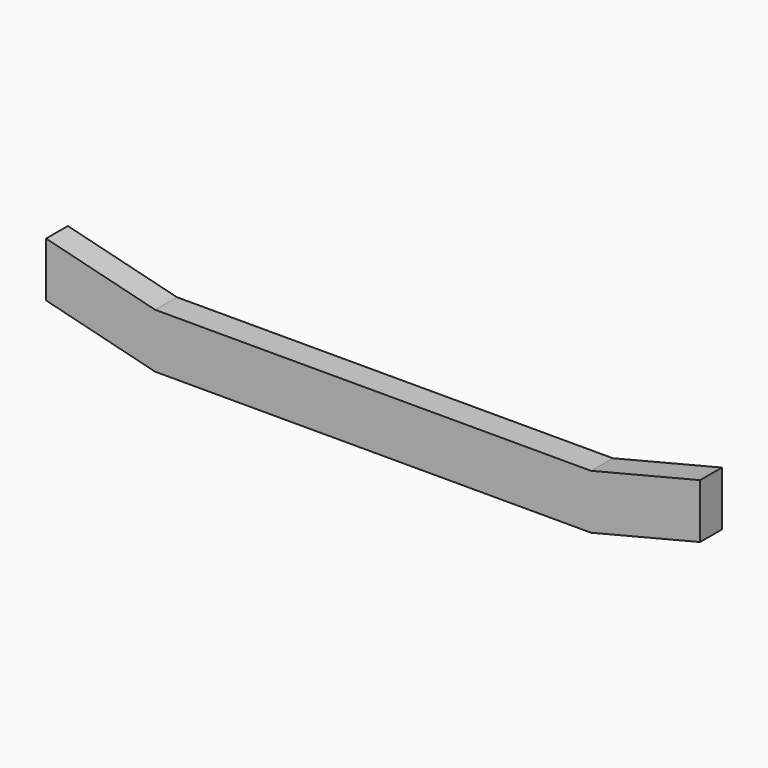
from build123d import *

# Parameters (mm, degrees)
F1_DEPTH = 25.4
F2_DEPTH = 8.382


with BuildPart() as f1:
    # F0 (on Front) → F1 (new body)
    with BuildSketch(Plane.XZ):
        Polygon((304.8, 0), (304.8, 50.8), (203.2, 25.4), (-203.2, 25.4), (-304.8, 50.8), (-304.8, 0), (-203.2, -25.4), (203.2, -25.4), align=None)
        with BuildLine():
            Line((280.170051, 28.278937), (205.533492, 9.619798))
            ThreePointArc((205.533492, 9.619798), (205.151373, 9.548789), (204.763441, 9.525))
            Line((204.763441, 9.525), (-204.763441, 9.525))
            ThreePointArc((-204.763441, 9.525), (-205.151373, 9.548789), (-205.533492, 9.619798))
            Line((-205.533492, 9.619798), (-280.170051, 28.278937))
            ThreePointArc((-280.170051, 28.278937), (-282.480202, 32.12919), (-278.629949, 34.439342))
            Line((-278.629949, 34.439342), (-204.372581, 15.875))
            Line((-204.372581, 15.875), (204.372581, 15.875))
            Line((204.372581, 15.875), (278.629949, 34.439342))
            ThreePointArc((278.629949, 34.439342), (282.480202, 32.12919), (280.170051, 28.278937))
        make_face(mode=Mode.SUBTRACT)
        with BuildLine():
            Line((-280.170051, 28.278937), (-205.533492, 9.619798))
            ThreePointArc((-205.533492, 9.619798), (-207.914653, 13.087932), (-204.763441, 15.875))
            Line((-204.763441, 15.875), (-204.372581, 15.875))
            Line((-204.372581, 15.875), (-278.629949, 34.439342))
            ThreePointArc((-278.629949, 34.439342), (-282.480202, 32.12919), (-280.170051, 28.278937))
        make_face()
        with BuildLine():
            Line((-204.763441, 9.525), (204.763441, 9.525))
            ThreePointArc((204.763441, 9.525), (201.61223, 12.312068), (203.993391, 15.780202))
            Line((203.993391, 15.780202), (204.372581, 15.875))
            Line((204.372581, 15.875), (-204.372581, 15.875))
            Line((-204.372581, 15.875), (-203.993391, 15.780202))
            ThreePointArc((-203.993391, 15.780202), (-201.61223, 12.312068), (-204.763441, 9.525))
        make_face()
        with BuildLine():
            ThreePointArc((204.763441, 15.875), (207.914653, 13.087932), (205.533492, 9.619798))
            Line((205.533492, 9.619798), (280.170051, 28.278937))
            ThreePointArc((280.170051, 28.278937), (282.480202, 32.12919), (278.629949, 34.439342))
            Line((278.629949, 34.439342), (204.372581, 15.875))
            Line((204.372581, 15.875), (204.763441, 15.875))
        make_face()
        with BuildLine():
            ThreePointArc((204.763441, 9.525), (205.151373, 9.548789), (205.533492, 9.619798))
            ThreePointArc((205.533492, 9.619798), (207.914653, 13.087932), (204.763441, 15.875))
            Line((204.763441, 15.875), (204.372581, 15.875))
            Line((204.372581, 15.875), (203.993391, 15.780202))
            ThreePointArc((203.993391, 15.780202), (201.61223, 12.312068), (204.763441, 9.525))
        make_face()
        with BuildLine():
            ThreePointArc((-205.533492, 9.619798), (-205.151373, 9.548789), (-204.763441, 9.525))
            ThreePointArc((-204.763441, 9.525), (-201.61223, 12.312068), (-203.993391, 15.780202))
            Line((-203.993391, 15.780202), (-204.372581, 15.875))
            Line((-204.372581, 15.875), (-204.763441, 15.875))
            ThreePointArc((-204.763441, 15.875), (-207.914653, 13.087932), (-205.533492, 9.619798))
        make_face()
    extrude(amount=F1_DEPTH)

    # F0 (on Front) → F2 (cut)
    with BuildSketch(Plane.XZ):
        with BuildLine():
            Line((-280.170051, 28.278937), (-205.533492, 9.619798))
            ThreePointArc((-205.533492, 9.619798), (-207.914653, 13.087932), (-204.763441, 15.875))
            Line((-204.763441, 15.875), (-204.372581, 15.875))
            Line((-204.372581, 15.875), (-278.629949, 34.439342))
            ThreePointArc((-278.629949, 34.439342), (-282.480202, 32.12919), (-280.170051, 28.278937))
        make_face()
        with BuildLine():
            Line((-204.763441, 9.525), (204.763441, 9.525))
            ThreePointArc((204.763441, 9.525), (201.61223, 12.312068), (203.993391, 15.780202))
            Line((203.993391, 15.780202), (204.372581, 15.875))
            Line((204.372581, 15.875), (-204.372581, 15.875))
            Line((-204.372581, 15.875), (-203.993391, 15.780202))
            ThreePointArc((-203.993391, 15.780202), (-201.61223, 12.312068), (-204.763441, 9.525))
        make_face()
        with BuildLine():
            ThreePointArc((204.763441, 15.875), (207.914653, 13.087932), (205.533492, 9.619798))
            Line((205.533492, 9.619798), (280.170051, 28.278937))
            ThreePointArc((280.170051, 28.278937), (282.480202, 32.12919), (278.629949, 34.439342))
            Line((278.629949, 34.439342), (204.372581, 15.875))
            Line((204.372581, 15.875), (204.763441, 15.875))
        make_face()
        with BuildLine():
            ThreePointArc((204.763441, 9.525), (205.151373, 9.548789), (205.533492, 9.619798))
            ThreePointArc((205.533492, 9.619798), (207.914653, 13.087932), (204.763441, 15.875))
            Line((204.763441, 15.875), (204.372581, 15.875))
            Line((204.372581, 15.875), (203.993391, 15.780202))
            ThreePointArc((203.993391, 15.780202), (201.61223, 12.312068), (204.763441, 9.525))
        make_face()
        with BuildLine():
            ThreePointArc((-205.533492, 9.619798), (-205.151373, 9.548789), (-204.763441, 9.525))
            ThreePointArc((-204.763441, 9.525), (-201.61223, 12.312068), (-203.993391, 15.780202))
            Line((-203.993391, 15.780202), (-204.372581, 15.875))
            Line((-204.372581, 15.875), (-204.763441, 15.875))
            ThreePointArc((-204.763441, 15.875), (-207.914653, 13.087932), (-205.533492, 9.619798))
        make_face()
    extrude(amount=F2_DEPTH, mode=Mode.SUBTRACT)


solid = f1.part
